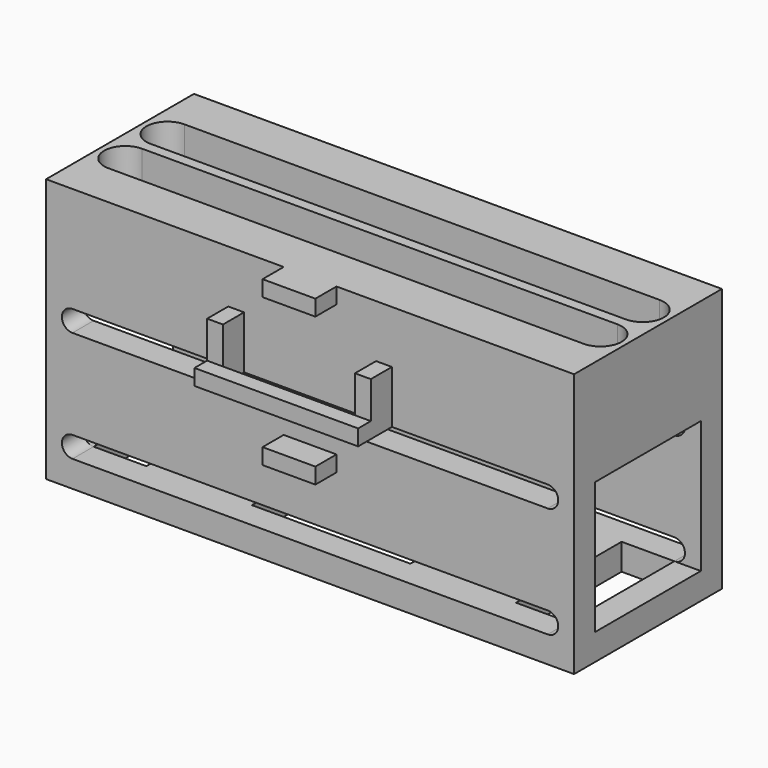
from build123d import *

# Parameters (mm, degrees)
F0_W      = 100
F0_H      = 35
F1_DEPTH  = 50
F3_DEPTH  = 35.001
F4_W      = 90
F4_H      = 25
F5_DEPTH  = 30
F6_R      = 1.575
F7_DEPTH  = 50.001
F9_DEPTH  = 18
F10_W     = 20
F10_H     = 5
F11_DEPTH = 25
F12_W     = 25
F12_H     = 25
F13_DEPTH = 100.001
F14_W     = 3
F14_H     = 10
F14_W_2   = 10
F14_H_2   = 3
F15_DEPTH = 5
F16_R     = 1.575
F17_DEPTH = 5.001
F18_W     = 31
F18_H     = 3
F19_DEPTH = 3


with BuildPart() as f1:
    # F0 (on Top) → F1 (new body)
    with BuildSketch(Plane.XY):
        Rectangle(F0_W, F0_H)
    extrude(amount=F1_DEPTH)

    # F2 (on face) → F3 (cut, through all)
    with BuildSketch(Plane.XZ.offset(17.5)):
        with BuildLine():
            Line((0, 9), (-45, 9))
            ThreePointArc((-45, 9), (-47, 7), (-45, 5))
            Line((-45, 5), (0, 5))
            Line((0, 5), (45, 5))
            ThreePointArc((45, 5), (47, 7), (45, 9))
            Line((45, 9), (0, 9))
        make_face()
        with BuildLine():
            Line((0, 26), (45, 26))
            ThreePointArc((45, 26), (47, 28), (45, 30))
            Line((45, 30), (0, 30))
            Line((0, 30), (-45, 30))
            ThreePointArc((-45, 30), (-47, 28), (-45, 26))
            Line((-45, 26), (0, 26))
        make_face()
    extrude(amount=-F3_DEPTH, mode=Mode.SUBTRACT)

    # F4 (on face) → F5 (cut)
    with BuildSketch(Plane(origin=(0, 0, 0), x_dir=(1, 0, 0), z_dir=(0, 0, -1))):
        Rectangle(F4_W, F4_H)
    extrude(amount=-F5_DEPTH, mode=Mode.SUBTRACT)

    # F6 (on face) → F7 (cut, through all)
    with BuildSketch(Plane.XY.offset(50)):
        with Locations((-42.5, 5)):
            Circle(F6_R)
        with Locations((-42.5, -5)):
            Circle(F6_R)
        with Locations((-37.5, 5)):
            Circle(F6_R)
        with Locations((-37.5, -5)):
            Circle(F6_R)
        with Locations((-32.5, 5)):
            Circle(F6_R)
        with Locations((-32.5, -5)):
            Circle(F6_R)
        with Locations((-27.5, 5)):
            Circle(F6_R)
        with Locations((-27.5, -5)):
            Circle(F6_R)
        with Locations((-22.5, 5)):
            Circle(F6_R)
        with Locations((-22.5, -5)):
            Circle(F6_R)
        with Locations((-17.5, 5)):
            Circle(F6_R)
        with Locations((-17.5, -5)):
            Circle(F6_R)
        with Locations((-12.5, 5)):
            Circle(F6_R)
        with Locations((-12.5, -5)):
            Circle(F6_R)
        with Locations((-7.5, 5)):
            Circle(F6_R)
        with Locations((-7.5, -5)):
            Circle(F6_R)
        with Locations((-2.5, 5)):
            Circle(F6_R)
        with Locations((-2.5, -5)):
            Circle(F6_R)
        with Locations((2.5, 5)):
            Circle(F6_R)
        with Locations((2.5, -5)):
            Circle(F6_R)
        with Locations((7.5, 5)):
            Circle(F6_R)
        with Locations((7.5, -5)):
            Circle(F6_R)
        with Locations((12.5, 5)):
            Circle(F6_R)
        with Locations((12.5, -5)):
            Circle(F6_R)
        with Locations((17.5, 5)):
            Circle(F6_R)
        with Locations((17.5, -5)):
            Circle(F6_R)
        with Locations((22.5, 5)):
            Circle(F6_R)
        with Locations((22.5, -5)):
            Circle(F6_R)
        with Locations((27.5, 5)):
            Circle(F6_R)
        with Locations((27.5, -5)):
            Circle(F6_R)
        with Locations((32.5, 5)):
            Circle(F6_R)
        with Locations((32.5, -5)):
            Circle(F6_R)
        with Locations((37.5, 5)):
            Circle(F6_R)
        with Locations((37.5, -5)):
            Circle(F6_R)
        with Locations((42.5, 5)):
            Circle(F6_R)
        with Locations((42.5, -5)):
            Circle(F6_R)
    extrude(amount=-F7_DEPTH, mode=Mode.SUBTRACT)

    # F8 (on face) → F9 (cut)
    with BuildSketch(Plane.XY.offset(50)):
        with BuildLine():
            Line((45, 9), (-45, 9))
            ThreePointArc((-45, 9), (-49, 5), (-45, 1))
            Line((-45, 1), (45, 1))
            ThreePointArc((45, 1), (49, 5), (45, 9))
        make_face()
        with BuildLine():
            ThreePointArc((-45, -1), (-49, -5), (-45, -9))
            Line((-45, -9), (45, -9))
            ThreePointArc((45, -9), (49, -5), (45, -1))
            Line((45, -1), (-45, -1))
        make_face()
    extrude(amount=-F9_DEPTH, mode=Mode.SUBTRACT)

    # F10 (on face) → F11 (join)
    with BuildSketch(Plane.XZ.offset(-12.5)):
        with Locations((-25, 2.5)):
            Rectangle(F10_W, F10_H)
        with Locations((25, 2.5)):
            Rectangle(F10_W, F10_H)
    extrude(amount=F11_DEPTH)

    # F12 (on face) → F13 (cut, through all)
    with BuildSketch(Plane.YZ.offset(50)):
        with Locations((0, 17.5)):
            Rectangle(F12_W, F12_H)
    extrude(amount=-F13_DEPTH, mode=Mode.SUBTRACT)

    # F14 (on face) → F15 (join)
    with BuildSketch(Plane.XZ.offset(17.5)):
        with Locations((-14, 35)):
            Rectangle(F14_W, F14_H)
        with Locations((14, 35)):
            Rectangle(F14_W, F14_H)
        with Locations((0, 48.5)):
            Rectangle(F14_W_2, F14_H_2)
        with Locations((0, 20.5)):
            Rectangle(F14_W_2, F14_H_2)
    extrude(amount=F15_DEPTH)

    # F16 (on face) → F17 (cut, through all)
    with BuildSketch(Plane.XY.offset(5)):
        with Locations((-32.5, 5)):
            Circle(F16_R)
        with Locations((-27.5, 5)):
            Circle(F16_R)
        with Locations((-22.5, 5)):
            Circle(F16_R)
        with Locations((-17.5, 5)):
            Circle(F16_R)
        with Locations((-32.5, -5)):
            Circle(F16_R)
        with Locations((-22.5, -5)):
            Circle(F16_R)
        with Locations((-27.5, -5)):
            Circle(F16_R)
        with Locations((-17.5, -5)):
            Circle(F16_R)
        with Locations((17.5, 5)):
            Circle(F16_R)
        with Locations((17.5, -5)):
            Circle(F16_R)
        with Locations((22.5, 5)):
            Circle(F16_R)
        with Locations((22.5, -5)):
            Circle(F16_R)
        with Locations((27.5, 5)):
            Circle(F16_R)
        with Locations((27.5, -5)):
            Circle(F16_R)
        with Locations((32.5, 5)):
            Circle(F16_R)
        with Locations((32.5, -5)):
            Circle(F16_R)
    extrude(amount=-F17_DEPTH, mode=Mode.SUBTRACT)

    # F18 (on face) → F19 (join)
    with BuildSketch(Plane.XZ.offset(22.5)):
        with Locations((0, 31.5)):
            Rectangle(F18_W, F18_H)
    extrude(amount=F19_DEPTH)


solid = f1.part
